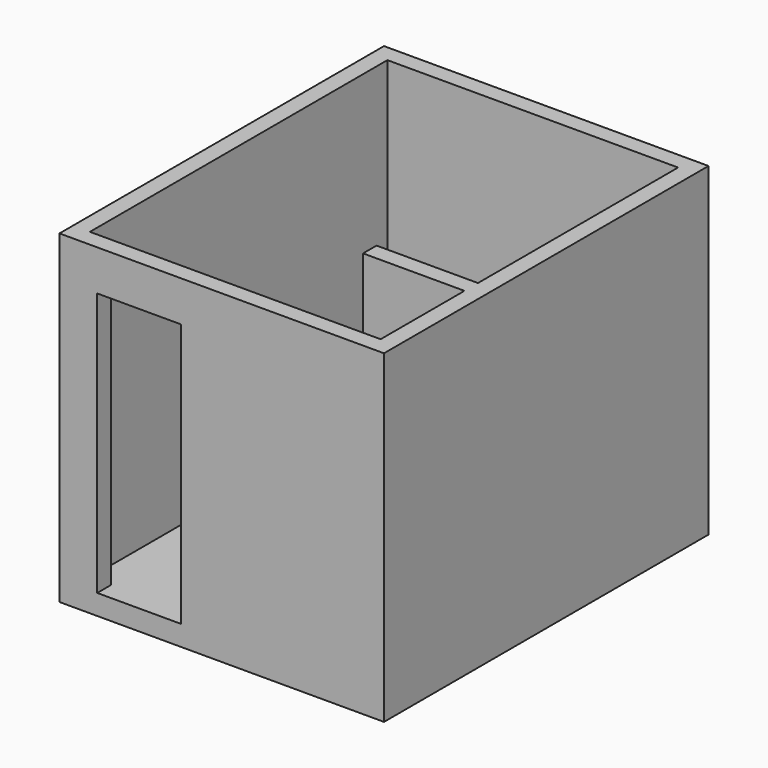
from build123d import *

# Parameters (mm, degrees)
F1_DEPTH = 2286
F2_W     = 2438.4
F2_H     = 3048
F3_DEPTH = 152.4
F4_W     = 840.340228
F4_H     = 127
F5_DEPTH = 304.8


with BuildPart() as f1:
    # F0 (on Top) → F1 (new body)
    with BuildSketch(Plane.XY):
        Polygon((0, 3048), (0, 0), (283.721119, 0), (283.721119, 127), (127, 127), (127, 2921), (2311.4, 2921), (2311.4, 1041.4), (1549.4, 1041.4), (1549.4, 914.4), (2311.4, 914.4), (2311.4, 127), (914.4, 127), (914.4, 0), (2438.4, 0), (2438.4, 3048), align=None)
    extrude(amount=F1_DEPTH)

    # F2 (on face) → F3 (join)
    with BuildSketch(Plane(origin=(0, 0, 0), x_dir=(1, 0, 0), z_dir=(0, 0, -1))):
        with Locations((1219.2, -1524)):
            Rectangle(F2_W, F2_H)
    extrude(amount=F3_DEPTH)

    # F4 (on face) → F5 (join)
    with BuildSketch(Plane.XY.offset(2286)):
        with Locations((625.530674, 63.5)):
            Rectangle(F4_W, F4_H)
    extrude(amount=-F5_DEPTH)


solid = f1.part
